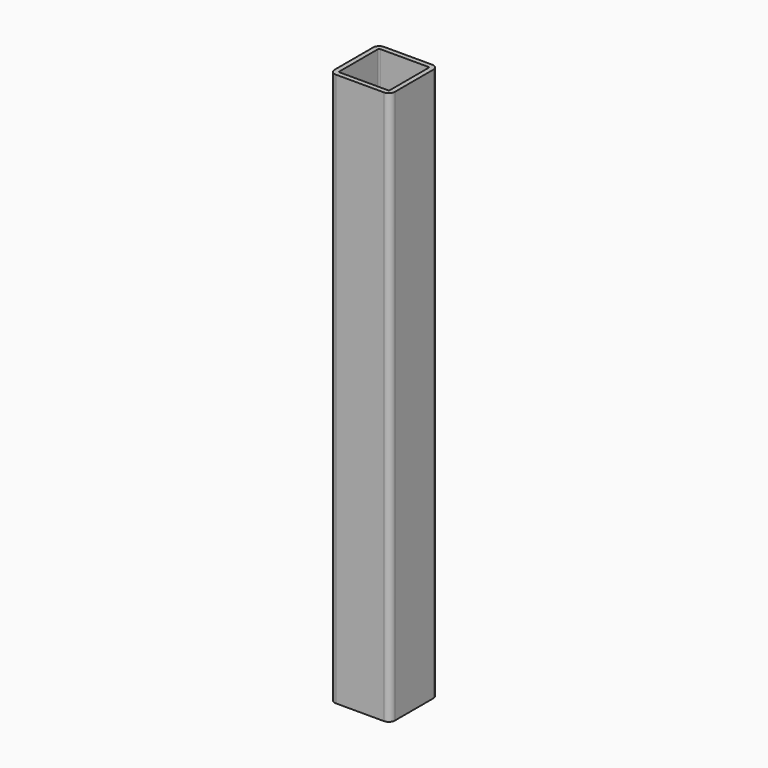
from build123d import *

# Parameters (mm, degrees)
F1_DEPTH = 460


with BuildPart() as f1:
    # F0 (on Top) → F1 (new body)
    with BuildSketch(Plane.XY):
        with BuildLine():
            Line((45, 0), (5, 0))
            ThreePointArc((5, 0), (1.464466, -1.464466), (0, -5))
            Line((0, -5), (0, -45))
            ThreePointArc((0, -45), (1.464466, -48.535534), (5, -50))
            Line((5, -50), (45, -50))
            ThreePointArc((45, -50), (48.535534, -48.535534), (50, -45))
            Line((50, -45), (50, -5))
            ThreePointArc((50, -5), (48.535534, -1.464466), (45, 0))
        make_face()
        with BuildLine():
            Line((4, -45), (4, -5))
            ThreePointArc((4, -5), (4.292893, -4.292893), (5, -4))
            Line((5, -4), (45, -4))
            ThreePointArc((45, -4), (45.707107, -4.292893), (46, -5))
            Line((46, -5), (46, -45))
            ThreePointArc((46, -45), (45.707107, -45.707107), (45, -46))
            Line((45, -46), (5, -46))
            ThreePointArc((5, -46), (4.292893, -45.707107), (4, -45))
        make_face(mode=Mode.SUBTRACT)
    extrude(amount=-F1_DEPTH)


solid = f1.part
